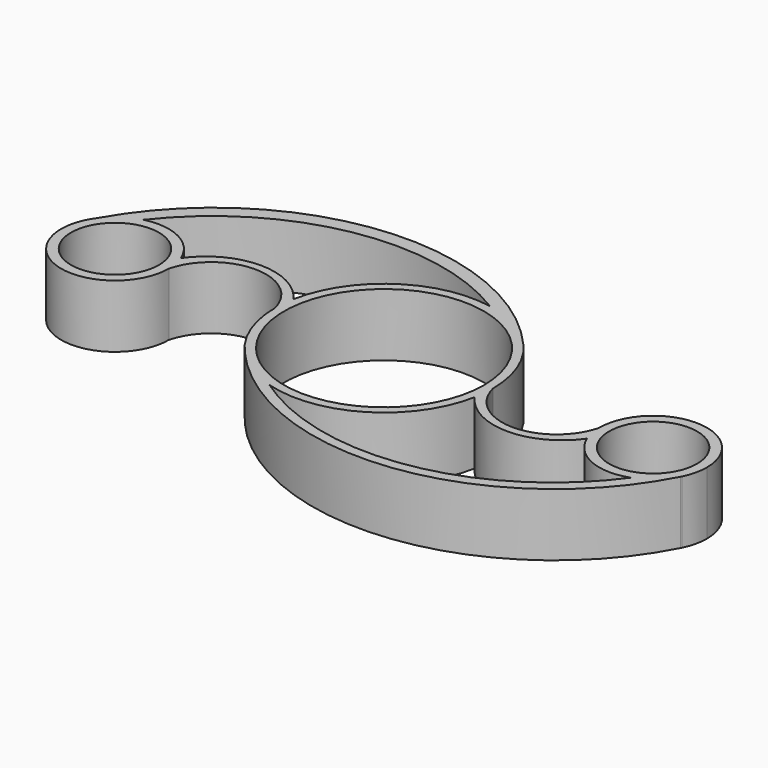
from build123d import *

# Parameters (mm, degrees)
F0_R     = 11.15
F0_R_2   = 4.9
F1_DEPTH = 7


with BuildPart() as f1:
    # F0 (on Top) → F1 (new body)
    with BuildSketch(Plane.XY):
        with BuildLine():
            ThreePointArc((11.934193, -2.279809), (12.095928, -1.145), (12.15, 0))
            ThreePointArc((12.15, 0), (11.355932, 4.320336), (9.077522, 8.075958))
            ThreePointArc((9.077522, 8.075958), (5.99238, 10.569479), (2.268484, 11.936351))
            ThreePointArc((2.268484, 11.936351), (-6.831402, 10.047609), (-11.934172, 2.279919))
            ThreePointArc((-11.934172, 2.279919), (-12.095923, 1.145056), (-12.15, 0))
            ThreePointArc((-12.15, 0), (-11.332353, -4.381813), (-8.989459, -8.173868))
            ThreePointArc((-8.989459, -8.173868), (-6.454942, -10.293504), (-3.443084, -11.651938))
            ThreePointArc((-3.443084, -11.651938), (6.323285, -10.374901), (11.934193, -2.279809))
        make_face()
        Circle(F0_R, mode=Mode.SUBTRACT)
        with BuildLine():
            ThreePointArc((24.000486, -0.076389), (18.045487, -4.654322), (12.15, 0))
            ThreePointArc((12.15, 0), (12.095928, -1.145), (11.934193, -2.279809))
            ThreePointArc((11.934193, -2.279809), (18.19214, -5.54994), (24.449691, -2.27905))
            ThreePointArc((24.449691, -2.27905), (24.121009, -1.198945), (24.000486, -0.076389))
        make_face()
        with BuildLine():
            ThreePointArc((2.268484, 11.936351), (5.99238, 10.569479), (9.077522, 8.075958))
            ThreePointArc((9.077522, 8.075958), (-14.006174, 17.199179), (-34.784149, 3.621038))
            ThreePointArc((-34.784149, 3.621038), (-33.320414, 4.997484), (-31.48432, 5.813501))
            ThreePointArc((-31.48432, 5.813501), (-15.779939, 15.335803), (2.268484, 11.936351))
        make_face()
        with BuildLine():
            ThreePointArc((36, 0), (29.961805, 5.999878), (24.000486, -0.076389))
            ThreePointArc((24.000486, -0.076389), (24.121009, -1.198945), (24.449691, -2.27905))
            ThreePointArc((24.449691, -2.27905), (27.569928, -5.485868), (32.041526, -5.642001))
            ThreePointArc((32.041526, -5.642001), (33.930911, -4.532983), (35.296208, -2.819607))
            ThreePointArc((35.296208, -2.819607), (35.33462, -2.745246), (35.372802, -2.670768))
            ThreePointArc((35.372802, -2.670768), (35.841096, -1.371712), (36, 0))
        make_face()
        with Locations((30, 0)):
            Circle(F0_R_2, mode=Mode.SUBTRACT)
        with BuildLine():
            ThreePointArc((-31.48432, 5.813501), (-33.320414, 4.997484), (-34.784149, 3.621038))
            ThreePointArc((-34.784149, 3.621038), (-31.909857, -5.687921), (-24, 0))
            ThreePointArc((-24, 0), (-24.106196, 1.123868), (-24.421027, 2.207953))
            ThreePointArc((-24.421027, 2.207953), (-27.272081, 5.344012), (-31.48432, 5.813501))
        make_face()
        with Locations((-30, 0)):
            Circle(F0_R_2, mode=Mode.SUBTRACT)
        with BuildLine():
            ThreePointArc((32.041526, -5.642001), (15.527899, -15.901483), (-3.443084, -11.651938))
            ThreePointArc((-3.443084, -11.651938), (-6.454942, -10.293504), (-8.989459, -8.173868))
            ThreePointArc((-8.989459, -8.173868), (14.567788, -17.195504), (35.296208, -2.819607))
            ThreePointArc((35.296208, -2.819607), (33.930911, -4.532983), (32.041526, -5.642001))
        make_face()
        with BuildLine():
            ThreePointArc((-12.15, 0), (-12.095923, 1.145056), (-11.934172, 2.279919))
            ThreePointArc((-11.934172, 2.279919), (-18.19633, 5.493881), (-24.421027, 2.207953))
            ThreePointArc((-24.421027, 2.207953), (-24.106196, 1.123868), (-24, 0))
            ThreePointArc((-24, 0), (-18.075, 4.614831), (-12.15, 0))
        make_face()
        with BuildLine():
            ThreePointArc((35.296208, -2.819607), (35.335024, -2.745454), (35.372802, -2.670768))
            ThreePointArc((35.372802, -2.670768), (35.33462, -2.745246), (35.296208, -2.819607))
        make_face()
    extrude(amount=F1_DEPTH)


solid = f1.part
